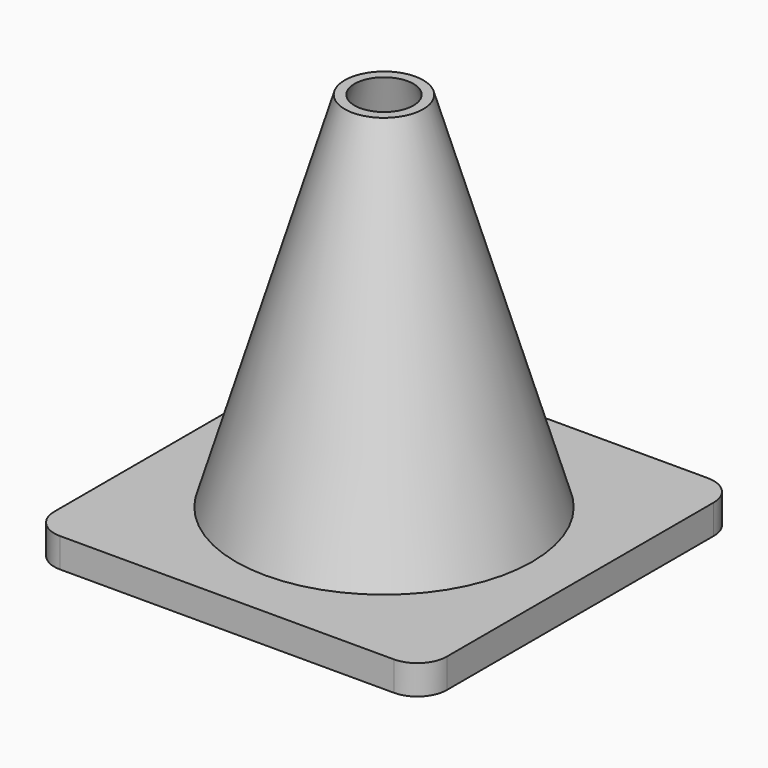
from build123d import *

# Parameters (mm, degrees)
BOX_W     = 40
BOX_H     = 40
BOX_DEPTH = 3
FILLET_R  = 3


with BuildPart() as con001:
    # Cone001 → Cone001 (revolve)
    with BuildSketch(Plane.XZ):
        Polygon((0, 0), (15, 0), (3, 40), (0, 40), align=None)
    revolve(axis=Axis((0, 0, 0), (0, 0, 1)))


with BuildPart() as cut:
    # Cone → Cone (revolve)
    with BuildSketch(Plane.XZ):
        Polygon((0, 0), (16, 0), (4, 40), (0, 40), align=None)
    revolve(axis=Axis((0, 0, 0), (0, 0, 1)))

    # Cut: cut Con001
    add(con001.part, mode=Mode.SUBTRACT)


with BuildPart() as cut_1:
    # Cut placement: moved
    add(cut.part.moved(Location((20, 20, 0))))


with BuildPart() as fusion:
    # Box → Box (new body)
    with BuildSketch(Plane.XY):
        with Locations((20, 20)):
            Rectangle(BOX_W, BOX_H)
    extrude(amount=BOX_DEPTH)

    # Fillet
    fillet_edges = [fusion.edges().sort_by_distance(p)[0] for p in [
        (0, 0, 1.5),
        (0, 40, 1.5),
        (40, 0, 1.5),
        (40, 40, 1.5),
    ]]
    fillet(fillet_edges, radius=FILLET_R)

    # Fusion: union Cut
    add(cut_1.part)


solid = fusion.part
